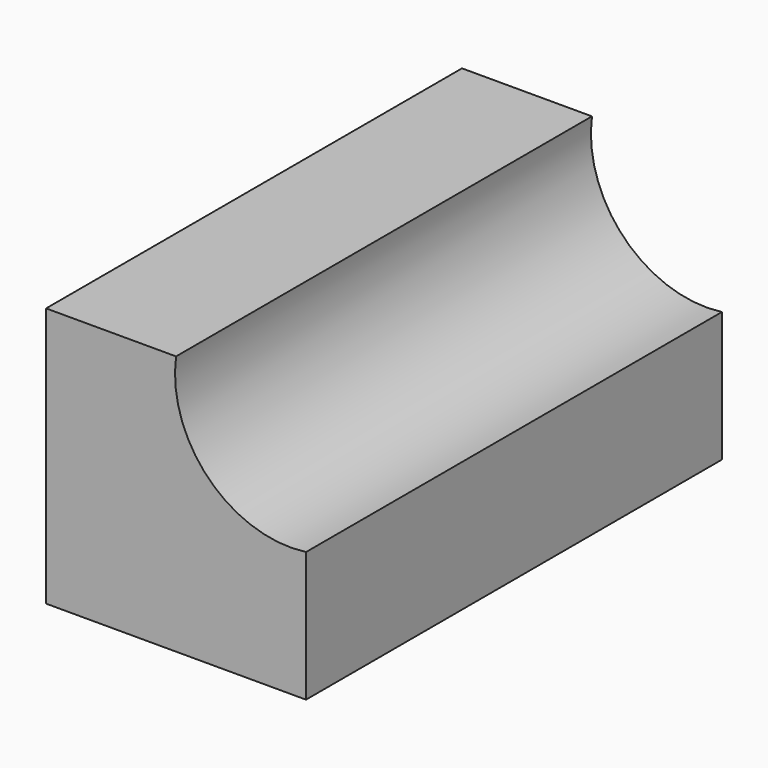
from build123d import *

# Parameters (mm, degrees)
F1_DEPTH = 50.8


with BuildPart() as f1:
    # F0 (on Front) → F1 (new body)
    with BuildSketch(Plane.XZ):
        with BuildLine():
            Line((-25.4, 0), (0, 0))
            Line((0, 0), (0, 12.7))
            ThreePointArc((0, 12.7), (-9.495563, 15.904437), (-12.7, 25.4))
            Line((-12.7, 25.4), (-25.4, 25.4))
            Line((-25.4, 25.4), (-25.4, 0))
        make_face()
        with BuildLine():
            Line((-25.4, 0), (0, 0))
            Line((0, 0), (0, 12.7))
            ThreePointArc((0, 12.7), (-9.495563, 15.904437), (-12.7, 25.4))
            Line((-12.7, 25.4), (-25.4, 25.4))
            Line((-25.4, 25.4), (-25.4, 0))
        make_face()
    extrude(amount=F1_DEPTH)


solid = f1.part
